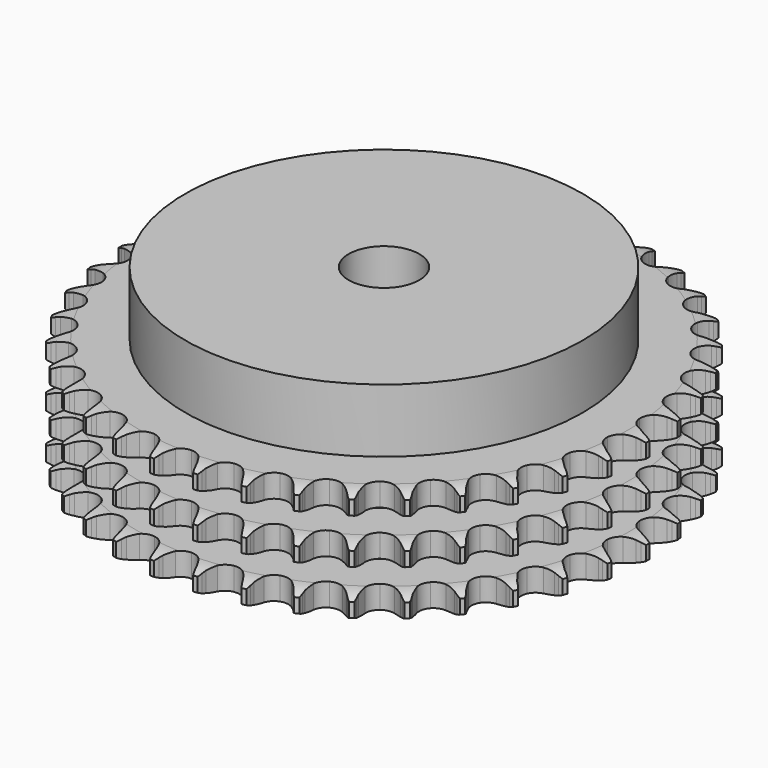
from build123d import *

# Parameters (mm, degrees)
PAD_DEPTH         = 25.6
SKETCH001_R       = 45
PAD001_DEPTH      = 40
SKETCH002_R       = 8
POCKET_DEPTH      = 0.001
POCKET_DEPTH_BACK = 40.001


with BuildPart() as part:
    # Sprocket → Pad (new body)
    with BuildSketch(Plane.XY):
        with BuildLine():
            ThreePointArc((-4.99856, 60.323644), (-4.441675, 59.555748), (-4.035521, 58.69853))
            Line((-4.035521, 58.69853), (-3.725843, 57.850122))
            ThreePointArc((-3.725843, 57.850122), (-3.235353, 56.757927), (-2.592985, 55.747564))
            ThreePointArc((-2.592985, 55.747564), (-1.45137, 54.787399), (0, 54.442831))
            ThreePointArc((0, 54.442831), (1.45137, 54.787399), (2.592985, 55.747564))
            ThreePointArc((2.592985, 55.747564), (3.235353, 56.757927), (3.725843, 57.850122))
            Line((3.725843, 57.850122), (4.035521, 58.69853))
            ThreePointArc((4.035521, 58.69853), (4.441675, 59.555748), (4.99856, 60.323644))
            ThreePointArc((4.99856, 60.323644), (5.421458, 59.474561), (5.680978, 58.562184))
            Line((5.680978, 58.562184), (5.846789, 57.674375))
            ThreePointArc((5.846789, 57.674375), (6.150821, 56.516344), (6.618128, 55.414031))
            ThreePointArc((6.618128, 55.414031), (7.586134, 54.279058), (8.960995, 53.700302))
            ThreePointArc((8.960995, 53.700302), (10.449284, 53.801282), (11.733367, 54.560448))
            Line((11.733367, 54.560448), (13.196845, 56.447868))
            ThreePointArc((13.196845, 56.447868), (13.408708, 56.846853), (13.641943, 57.233734))
            ThreePointArc((13.641943, 57.233734), (14.18365, 58.01241), (14.859331, 58.678172))
            ThreePointArc((14.859331, 58.678172), (15.136708, 57.771063), (15.242516, 56.828413))
            Line((15.242516, 56.828413), (15.259937, 55.925422))
            ThreePointArc((15.259937, 55.925422), (15.369216, 54.733143), (15.648715, 53.568948))
            ThreePointArc((15.648715, 53.568948), (16.416709, 52.290125), (17.677558, 51.492968))
            ThreePointArc((17.677558, 51.492968), (19.16217, 51.347607), (20.553694, 51.885066))
            Line((20.553694, 51.885066), (22.307871, 53.505863))
            ThreePointArc((22.307871, 53.505863), (22.582515, 53.864535), (22.876247, 54.20775))
            ThreePointArc((22.876247, 54.20775), (23.538732, 54.886644), (24.314779, 55.432112))
            ThreePointArc((24.314779, 55.432112), (24.439067, 54.491721), (24.388277, 53.544512))
            Line((24.388277, 53.544512), (24.256833, 52.650969))
            ThreePointArc((24.256833, 52.650969), (24.168379, 51.456965), (24.252445, 50.262643))
            ThreePointArc((24.252445, 50.262643), (24.799478, 48.874855), (25.911924, 47.881041))
            ThreePointArc((25.911924, 47.881041), (27.352361, 47.493304), (28.81337, 47.794394))
            Line((28.81337, 47.794394), (30.810396, 49.104358))
            ThreePointArc((30.810396, 49.104358), (31.14033, 49.412933), (31.486548, 49.70312))
            ThreePointArc((31.486548, 49.70312), (32.251739, 50.263714), (33.106983, 50.67401))
            ThreePointArc((33.106983, 50.67401), (33.074793, 49.725987), (32.86879, 48.800056))
            Line((32.86879, 48.800056), (32.592066, 47.940335))
            ThreePointArc((32.592066, 47.940335), (32.308292, 46.777174), (32.194633, 45.585305))
            ThreePointArc((32.194633, 45.585305), (32.505782, 44.126406), (33.439479, 42.963043))
            ThreePointArc((33.439479, 42.963043), (34.796452, 42.343506), (36.287092, 42.400016))
            Line((36.287092, 42.400016), (38.472494, 43.363414))
            ThreePointArc((38.472494, 43.363414), (38.848718, 43.613475), (39.237977, 43.842719))
            ThreePointArc((39.237977, 43.842719), (40.085003, 44.269721), (40.996115, 44.533652))
            ThreePointArc((40.996115, 44.533652), (40.808324, 43.603857), (40.452728, 42.724462))
            Line((40.452728, 42.724462), (40.038273, 41.922013))
            ThreePointArc((40.038273, 41.922013), (39.566919, 40.821424), (39.258635, 39.664518))
            ThreePointArc((39.258635, 39.664518), (39.325413, 38.174303), (40.054893, 36.873126))
            ThreePointArc((40.054893, 36.873126), (41.291385, 36.038688), (42.770996, 35.849077))
            Line((42.770996, 35.849077), (45.085163, 36.439629))
            ThreePointArc((45.085163, 36.439629), (45.497414, 36.624355), (45.919096, 36.786403))
            ThreePointArc((45.919096, 36.786403), (46.824852, 37.068165), (47.766979, 37.178532))
            ThreePointArc((47.766979, 37.178532), (47.428711, 36.292328), (46.933221, 35.483456))
            Line((46.933221, 35.483456), (46.39234, 34.760169))
            ThreePointArc((46.39234, 34.760169), (45.746263, 33.752173), (45.251763, 32.661787))
            ThreePointArc((45.251763, 32.661787), (45.07235, 31.180905), (45.577713, 29.777406))
            ThreePointArc((45.577713, 29.777406), (46.659998, 28.750829), (48.08822, 28.320267))
            Line((48.08822, 28.320267), (50.468026, 28.521866))
            ThreePointArc((50.468026, 28.521866), (50.90506, 28.636219), (51.347663, 28.72665))
            ThreePointArc((51.347663, 28.72665), (52.287442, 28.855486), (53.234885, 28.809279))
            ThreePointArc((53.234885, 28.809279), (52.755366, 27.990839), (52.133498, 27.274554))
            Line((52.133498, 27.274554), (51.480944, 26.650157))
            ThreePointArc((51.480944, 26.650157), (50.677769, 25.76225), (50.010542, 24.768127))
            ThreePointArc((50.010542, 24.768127), (49.58983, 23.336973), (49.857293, 21.869436))
            ThreePointArc((49.857293, 21.869436), (50.755847, 20.678722), (52.093722, 20.018955))
            Line((52.093722, 20.018955), (54.474253, 19.826101))
            ThreePointArc((54.474253, 19.826101), (54.924148, 19.86696), (55.375599, 19.883308))
            ThreePointArc((55.375599, 19.883308), (56.323766, 19.855705), (57.250682, 19.654184))
            ThreePointArc((57.250682, 19.654184), (56.642992, 18.925832), (55.911709, 18.321673))
            Line((55.911709, 18.321673), (55.165283, 17.813199))
            ThreePointArc((55.165283, 17.813199), (54.226917, 17.069599), (53.405163, 16.198858))
            ThreePointArc((53.405163, 16.198858), (52.754629, 14.85647), (52.776895, 13.364925))
            ThreePointArc((52.776895, 13.364925), (53.467209, 12.042553), (54.678243, 11.171578))
            Line((54.678243, 11.171578), (56.994564, 10.589532))
            ThreePointArc((56.994564, 10.589532), (57.445048, 10.555783), (57.893033, 10.497602))
            ThreePointArc((57.893033, 10.497602), (58.823725, 10.314311), (59.70483, 9.962974))
            ThreePointArc((59.70483, 9.962974), (58.985545, 9.344579), (58.164794, 8.869024))
            Line((58.164794, 8.869024), (57.344857, 8.490343))
            ThreePointArc((57.344857, 8.490343), (56.296896, 7.911335), (55.34303, 7.187726))
            ThreePointArc((55.34303, 7.187726), (54.480419, 5.97072), (54.256881, 4.495853))
            ThreePointArc((54.256881, 4.495853), (54.720125, 3.077895), (55.771284, 2.019469))
            Line((55.771284, 2.019469), (57.960212, 1.064108))
            ThreePointArc((57.960212, 1.064108), (58.398997, 0.956672), (58.831295, 0.825548))
            ThreePointArc((58.831295, 0.825548), (59.719126, 0.491571), (60.530385, 0))
            ThreePointArc((60.530385, 0), (59.719126, -0.491571), (58.831295, -0.825548))
            Line((58.831295, -0.825548), (57.960212, -1.064108))
            ThreePointArc((57.960212, -1.064108), (56.831243, -1.46273), (55.771284, -2.019469))
            ThreePointArc((55.771284, -2.019469), (54.720125, -3.077895), (54.256881, -4.495853))
            ThreePointArc((54.256881, -4.495853), (54.480419, -5.97072), (55.34303, -7.187726))
            Line((55.34303, -7.187726), (57.344857, -8.490343))
            ThreePointArc((57.344857, -8.490343), (57.759974, -8.668535), (58.164794, -8.869024))
            ThreePointArc((58.164794, -8.869024), (58.985545, -9.344579), (59.70483, -9.962974))
            ThreePointArc((59.70483, -9.962974), (58.823725, -10.314311), (57.893033, -10.497602))
            Line((57.893033, -10.497602), (56.994564, -10.589532))
            ThreePointArc((56.994564, -10.589532), (55.815381, -10.796895), (54.678243, -11.171578))
            ThreePointArc((54.678243, -11.171578), (53.467209, -12.042553), (52.776895, -13.364925))
            ThreePointArc((52.776895, -13.364925), (52.754629, -14.85647), (53.405163, -16.198858))
            Line((53.405163, -16.198858), (55.165283, -17.813199))
            ThreePointArc((55.165283, -17.813199), (55.54541, -18.057287), (55.911709, -18.321673))
            ThreePointArc((55.911709, -18.321673), (56.642992, -18.925832), (57.250682, -19.654184))
            ThreePointArc((57.250682, -19.654184), (56.323766, -19.855705), (55.375599, -19.883308))
            Line((55.375599, -19.883308), (54.474253, -19.826101))
            ThreePointArc((54.474253, -19.826101), (53.277022, -19.836549), (52.093722, -20.018955))
            ThreePointArc((52.093722, -20.018955), (50.755847, -20.678722), (49.857293, -21.869436))
            ThreePointArc((49.857293, -21.869436), (49.58983, -23.336973), (50.010542, -24.768127))
            Line((50.010542, -24.768127), (51.480944, -26.650157))
            ThreePointArc((51.480944, -26.650157), (51.815711, -26.953483), (52.133498, -27.274554))
            ThreePointArc((52.133498, -27.274554), (52.755366, -27.990839), (53.234885, -28.809279))
            ThreePointArc((53.234885, -28.809279), (52.287442, -28.855486), (51.347663, -28.72665))
            Line((51.347663, -28.72665), (50.468026, -28.521866))
            ThreePointArc((50.468026, -28.521866), (49.285404, -28.335114), (48.08822, -28.320267))
            ThreePointArc((48.08822, -28.320267), (46.659998, -28.750829), (45.577713, -29.777406))
            ThreePointArc((45.577713, -29.777406), (45.07235, -31.180905), (45.251763, -32.661787))
            Line((45.251763, -32.661787), (46.39234, -34.760169))
            ThreePointArc((46.39234, -34.760169), (46.672615, -35.114458), (46.933221, -35.483456))
            ThreePointArc((46.933221, -35.483456), (47.428711, -36.292328), (47.766979, -37.178532))
            ThreePointArc((47.766979, -37.178532), (46.824852, -37.068165), (45.919096, -36.786403))
            Line((45.919096, -36.786403), (45.085163, -36.439629))
            ThreePointArc((45.085163, -36.439629), (43.949409, -36.060771), (42.770996, -35.849077))
            ThreePointArc((42.770996, -35.849077), (41.291385, -36.038688), (40.054893, -36.873126))
            ThreePointArc((40.054893, -36.873126), (39.325413, -38.174303), (39.258635, -39.664518))
            Line((39.258635, -39.664518), (40.038273, -41.922013))
            ThreePointArc((40.038273, -41.922013), (40.256411, -42.317602), (40.452728, -42.724462))
            ThreePointArc((40.452728, -42.724462), (40.808324, -43.603857), (40.996115, -44.533652))
            ThreePointArc((40.996115, -44.533652), (40.085003, -44.269721), (39.237977, -43.842719))
            Line((39.237977, -43.842719), (38.472494, -43.363414))
            ThreePointArc((38.472494, -43.363414), (37.414588, -42.802784), (36.287092, -42.400016))
            ThreePointArc((36.287092, -42.400016), (34.796452, -42.343506), (33.439479, -42.963043))
            ThreePointArc((33.439479, -42.963043), (32.505782, -44.126406), (32.194633, -45.585305))
            Line((32.194633, -45.585305), (32.592066, -47.940335))
            ThreePointArc((32.592066, -47.940335), (32.742118, -48.366433), (32.86879, -48.800056))
            ThreePointArc((32.86879, -48.800056), (33.074793, -49.725987), (33.106983, -50.67401))
            ThreePointArc((33.106983, -50.67401), (32.251739, -50.263714), (31.486548, -49.70312))
            Line((31.486548, -49.70312), (30.810396, -49.104358))
            ThreePointArc((30.810396, -49.104358), (29.859195, -48.377249), (28.81337, -47.794394))
            ThreePointArc((28.81337, -47.794394), (27.352361, -47.493304), (25.911924, -47.881041))
            ThreePointArc((25.911924, -47.881041), (24.799478, -48.874855), (24.252445, -50.262643))
            Line((24.252445, -50.262643), (24.256833, -52.650969))
            ThreePointArc((24.256833, -52.650969), (24.334705, -53.095953), (24.388277, -53.544512))
            ThreePointArc((24.388277, -53.544512), (24.439067, -54.491721), (24.314779, -55.432112))
            ThreePointArc((24.314779, -55.432112), (23.538732, -54.886644), (22.876247, -54.20775))
            Line((22.876247, -54.20775), (22.307871, -53.505863))
            ThreePointArc((22.307871, -53.505863), (21.489321, -52.632108), (20.553694, -51.885066))
            ThreePointArc((20.553694, -51.885066), (19.16217, -51.347607), (17.677558, -51.492968))
            ThreePointArc((17.677558, -51.492968), (16.416709, -52.290125), (15.648715, -53.568948))
            Line((15.648715, -53.568948), (15.259937, -55.925422))
            ThreePointArc((15.259937, -55.925422), (15.263504, -56.377155), (15.242516, -56.828413))
            ThreePointArc((15.242516, -56.828413), (15.136708, -57.771063), (14.859331, -58.678172))
            ThreePointArc((14.859331, -58.678172), (14.18365, -58.01241), (13.641943, -57.233734))
            Line((13.641943, -57.233734), (13.196845, -56.447868))
            ThreePointArc((13.196845, -56.447868), (12.533275, -55.451301), (11.733367, -54.560448))
            ThreePointArc((11.733367, -54.560448), (10.449284, -53.801282), (8.960995, -53.700302))
            ThreePointArc((8.960995, -53.700302), (7.586134, -54.279058), (6.618128, -55.414031))
            Line((6.618128, -55.414031), (5.846789, -57.674375))
            ThreePointArc((5.846789, -57.674375), (5.775956, -58.120534), (5.680978, -58.562184))
            ThreePointArc((5.680978, -58.562184), (5.421458, -59.474561), (4.99856, -60.323644))
            ThreePointArc((4.99856, -60.323644), (4.441675, -59.555748), (4.035521, -58.69853))
            Line((4.035521, -58.69853), (3.725843, -57.850122))
            ThreePointArc((3.725843, -57.850122), (3.235353, -56.757927), (2.592985, -55.747564))
            ThreePointArc((2.592985, -55.747564), (1.45137, -54.787399), (0, -54.442831))
            ThreePointArc((0, -54.442831), (-1.45137, -54.787399), (-2.592985, -55.747564))
            Line((-2.592985, -55.747564), (-3.725843, -57.850122))
            ThreePointArc((-3.725843, -57.850122), (-3.869146, -58.278537), (-4.035521, -58.69853))
            ThreePointArc((-4.035521, -58.69853), (-4.441675, -59.555748), (-4.99856, -60.323644))
            ThreePointArc((-4.99856, -60.323644), (-5.421458, -59.474561), (-5.680978, -58.562184))
            Line((-5.680978, -58.562184), (-5.846789, -57.674375))
            ThreePointArc((-5.846789, -57.674375), (-6.150821, -56.516344), (-6.618128, -55.414031))
            ThreePointArc((-6.618128, -55.414031), (-7.586134, -54.279058), (-8.960995, -53.700302))
            ThreePointArc((-8.960995, -53.700302), (-10.449284, -53.801282), (-11.733367, -54.560448))
            Line((-11.733367, -54.560448), (-13.196845, -56.447868))
            ThreePointArc((-13.196845, -56.447868), (-13.408708, -56.846853), (-13.641943, -57.233734))
            ThreePointArc((-13.641943, -57.233734), (-14.18365, -58.01241), (-14.859331, -58.678172))
            ThreePointArc((-14.859331, -58.678172), (-15.136708, -57.771063), (-15.242516, -56.828413))
            Line((-15.242516, -56.828413), (-15.259937, -55.925422))
            ThreePointArc((-15.259937, -55.925422), (-15.369216, -54.733143), (-15.648715, -53.568948))
            ThreePointArc((-15.648715, -53.568948), (-16.416709, -52.290125), (-17.677558, -51.492968))
            ThreePointArc((-17.677558, -51.492968), (-19.16217, -51.347607), (-20.553694, -51.885066))
            Line((-20.553694, -51.885066), (-22.307871, -53.505863))
            ThreePointArc((-22.307871, -53.505863), (-22.582515, -53.864535), (-22.876247, -54.20775))
            ThreePointArc((-22.876247, -54.20775), (-23.538732, -54.886644), (-24.314779, -55.432112))
            ThreePointArc((-24.314779, -55.432112), (-24.439067, -54.491721), (-24.388277, -53.544512))
            Line((-24.388277, -53.544512), (-24.256833, -52.650969))
            ThreePointArc((-24.256833, -52.650969), (-24.168379, -51.456965), (-24.252445, -50.262643))
            ThreePointArc((-24.252445, -50.262643), (-24.799478, -48.874855), (-25.911924, -47.881041))
            ThreePointArc((-25.911924, -47.881041), (-27.352361, -47.493304), (-28.81337, -47.794394))
            Line((-28.81337, -47.794394), (-30.810396, -49.104358))
            ThreePointArc((-30.810396, -49.104358), (-31.14033, -49.412933), (-31.486548, -49.70312))
            ThreePointArc((-31.486548, -49.70312), (-32.251739, -50.263714), (-33.106983, -50.67401))
            ThreePointArc((-33.106983, -50.67401), (-33.074793, -49.725987), (-32.86879, -48.800056))
            Line((-32.86879, -48.800056), (-32.592066, -47.940335))
            ThreePointArc((-32.592066, -47.940335), (-32.308292, -46.777174), (-32.194633, -45.585305))
            ThreePointArc((-32.194633, -45.585305), (-32.505782, -44.126406), (-33.439479, -42.963043))
            ThreePointArc((-33.439479, -42.963043), (-34.796452, -42.343506), (-36.287092, -42.400016))
            Line((-36.287092, -42.400016), (-38.472494, -43.363414))
            ThreePointArc((-38.472494, -43.363414), (-38.848718, -43.613475), (-39.237977, -43.842719))
            ThreePointArc((-39.237977, -43.842719), (-40.085003, -44.269721), (-40.996115, -44.533652))
            ThreePointArc((-40.996115, -44.533652), (-40.808324, -43.603857), (-40.452728, -42.724462))
            Line((-40.452728, -42.724462), (-40.038273, -41.922013))
            ThreePointArc((-40.038273, -41.922013), (-39.566919, -40.821424), (-39.258635, -39.664518))
            ThreePointArc((-39.258635, -39.664518), (-39.325413, -38.174303), (-40.054893, -36.873126))
            ThreePointArc((-40.054893, -36.873126), (-41.291385, -36.038688), (-42.770996, -35.849077))
            Line((-42.770996, -35.849077), (-45.085163, -36.439629))
            ThreePointArc((-45.085163, -36.439629), (-45.497414, -36.624355), (-45.919096, -36.786403))
            ThreePointArc((-45.919096, -36.786403), (-46.824852, -37.068165), (-47.766979, -37.178532))
            ThreePointArc((-47.766979, -37.178532), (-47.428711, -36.292328), (-46.933221, -35.483456))
            Line((-46.933221, -35.483456), (-46.39234, -34.760169))
            ThreePointArc((-46.39234, -34.760169), (-45.746263, -33.752173), (-45.251763, -32.661787))
            ThreePointArc((-45.251763, -32.661787), (-45.07235, -31.180905), (-45.577713, -29.777406))
            ThreePointArc((-45.577713, -29.777406), (-46.659998, -28.750829), (-48.08822, -28.320267))
            Line((-48.08822, -28.320267), (-50.468026, -28.521866))
            ThreePointArc((-50.468026, -28.521866), (-50.90506, -28.636219), (-51.347663, -28.72665))
            ThreePointArc((-51.347663, -28.72665), (-52.287442, -28.855486), (-53.234885, -28.809279))
            ThreePointArc((-53.234885, -28.809279), (-52.755366, -27.990839), (-52.133498, -27.274554))
            Line((-52.133498, -27.274554), (-51.480944, -26.650157))
            ThreePointArc((-51.480944, -26.650157), (-50.677769, -25.76225), (-50.010542, -24.768127))
            ThreePointArc((-50.010542, -24.768127), (-49.58983, -23.336973), (-49.857293, -21.869436))
            ThreePointArc((-49.857293, -21.869436), (-50.755847, -20.678722), (-52.093722, -20.018955))
            Line((-52.093722, -20.018955), (-54.474253, -19.826101))
            ThreePointArc((-54.474253, -19.826101), (-54.924148, -19.86696), (-55.375599, -19.883308))
            ThreePointArc((-55.375599, -19.883308), (-56.323766, -19.855705), (-57.250682, -19.654184))
            ThreePointArc((-57.250682, -19.654184), (-56.642992, -18.925832), (-55.911709, -18.321673))
            Line((-55.911709, -18.321673), (-55.165283, -17.813199))
            ThreePointArc((-55.165283, -17.813199), (-54.226917, -17.069599), (-53.405163, -16.198858))
            ThreePointArc((-53.405163, -16.198858), (-52.754629, -14.85647), (-52.776895, -13.364925))
            ThreePointArc((-52.776895, -13.364925), (-53.467209, -12.042553), (-54.678243, -11.171578))
            Line((-54.678243, -11.171578), (-56.994564, -10.589532))
            ThreePointArc((-56.994564, -10.589532), (-57.445048, -10.555783), (-57.893033, -10.497602))
            ThreePointArc((-57.893033, -10.497602), (-58.823725, -10.314311), (-59.70483, -9.962974))
            ThreePointArc((-59.70483, -9.962974), (-58.985545, -9.344579), (-58.164794, -8.869024))
            Line((-58.164794, -8.869024), (-57.344857, -8.490343))
            ThreePointArc((-57.344857, -8.490343), (-56.296896, -7.911335), (-55.34303, -7.187726))
            ThreePointArc((-55.34303, -7.187726), (-54.480419, -5.97072), (-54.256881, -4.495853))
            ThreePointArc((-54.256881, -4.495853), (-54.720125, -3.077895), (-55.771284, -2.019469))
            Line((-55.771284, -2.019469), (-57.960212, -1.064108))
            ThreePointArc((-57.960212, -1.064108), (-58.398997, -0.956672), (-58.831295, -0.825548))
            ThreePointArc((-58.831295, -0.825548), (-59.719126, -0.491571), (-60.530385, 0))
            ThreePointArc((-60.530385, 0), (-59.719126, 0.491571), (-58.831295, 0.825548))
            Line((-58.831295, 0.825548), (-57.960212, 1.064108))
            ThreePointArc((-57.960212, 1.064108), (-56.831243, 1.46273), (-55.771284, 2.019469))
            ThreePointArc((-55.771284, 2.019469), (-54.720125, 3.077895), (-54.256881, 4.495853))
            ThreePointArc((-54.256881, 4.495853), (-54.480419, 5.97072), (-55.34303, 7.187726))
            Line((-55.34303, 7.187726), (-57.344857, 8.490343))
            ThreePointArc((-57.344857, 8.490343), (-57.759974, 8.668535), (-58.164794, 8.869024))
            ThreePointArc((-58.164794, 8.869024), (-58.985545, 9.344579), (-59.70483, 9.962974))
            ThreePointArc((-59.70483, 9.962974), (-58.823725, 10.314311), (-57.893033, 10.497602))
            Line((-57.893033, 10.497602), (-56.994564, 10.589532))
            ThreePointArc((-56.994564, 10.589532), (-55.815381, 10.796895), (-54.678243, 11.171578))
            ThreePointArc((-54.678243, 11.171578), (-53.467209, 12.042553), (-52.776895, 13.364925))
            ThreePointArc((-52.776895, 13.364925), (-52.754629, 14.85647), (-53.405163, 16.198858))
            Line((-53.405163, 16.198858), (-55.165283, 17.813199))
            ThreePointArc((-55.165283, 17.813199), (-55.54541, 18.057287), (-55.911709, 18.321673))
            ThreePointArc((-55.911709, 18.321673), (-56.642992, 18.925832), (-57.250682, 19.654184))
            ThreePointArc((-57.250682, 19.654184), (-56.323766, 19.855705), (-55.375599, 19.883308))
            Line((-55.375599, 19.883308), (-54.474253, 19.826101))
            ThreePointArc((-54.474253, 19.826101), (-53.277022, 19.836549), (-52.093722, 20.018955))
            ThreePointArc((-52.093722, 20.018955), (-50.755847, 20.678722), (-49.857293, 21.869436))
            ThreePointArc((-49.857293, 21.869436), (-49.58983, 23.336973), (-50.010542, 24.768127))
            Line((-50.010542, 24.768127), (-51.480944, 26.650157))
            ThreePointArc((-51.480944, 26.650157), (-51.815711, 26.953483), (-52.133498, 27.274554))
            ThreePointArc((-52.133498, 27.274554), (-52.755366, 27.990839), (-53.234885, 28.809279))
            ThreePointArc((-53.234885, 28.809279), (-52.287442, 28.855486), (-51.347663, 28.72665))
            Line((-51.347663, 28.72665), (-50.468026, 28.521866))
            ThreePointArc((-50.468026, 28.521866), (-49.285404, 28.335114), (-48.08822, 28.320267))
            ThreePointArc((-48.08822, 28.320267), (-46.659998, 28.750829), (-45.577713, 29.777406))
            ThreePointArc((-45.577713, 29.777406), (-45.07235, 31.180905), (-45.251763, 32.661787))
            Line((-45.251763, 32.661787), (-46.39234, 34.760169))
            ThreePointArc((-46.39234, 34.760169), (-46.672615, 35.114458), (-46.933221, 35.483456))
            ThreePointArc((-46.933221, 35.483456), (-47.428711, 36.292328), (-47.766979, 37.178532))
            ThreePointArc((-47.766979, 37.178532), (-46.824852, 37.068165), (-45.919096, 36.786403))
            Line((-45.919096, 36.786403), (-45.085163, 36.439629))
            ThreePointArc((-45.085163, 36.439629), (-43.949409, 36.060771), (-42.770996, 35.849077))
            ThreePointArc((-42.770996, 35.849077), (-41.291385, 36.038688), (-40.054893, 36.873126))
            ThreePointArc((-40.054893, 36.873126), (-39.325413, 38.174303), (-39.258635, 39.664518))
            Line((-39.258635, 39.664518), (-40.038273, 41.922013))
            ThreePointArc((-40.038273, 41.922013), (-40.256411, 42.317602), (-40.452728, 42.724462))
            ThreePointArc((-40.452728, 42.724462), (-40.808324, 43.603857), (-40.996115, 44.533652))
            ThreePointArc((-40.996115, 44.533652), (-40.085003, 44.269721), (-39.237977, 43.842719))
            Line((-39.237977, 43.842719), (-38.472494, 43.363414))
            ThreePointArc((-38.472494, 43.363414), (-37.414588, 42.802784), (-36.287092, 42.400016))
            ThreePointArc((-36.287092, 42.400016), (-34.796452, 42.343506), (-33.439479, 42.963043))
            ThreePointArc((-33.439479, 42.963043), (-32.505782, 44.126406), (-32.194633, 45.585305))
            Line((-32.194633, 45.585305), (-32.592066, 47.940335))
            ThreePointArc((-32.592066, 47.940335), (-32.742118, 48.366433), (-32.86879, 48.800056))
            ThreePointArc((-32.86879, 48.800056), (-33.074793, 49.725987), (-33.106983, 50.67401))
            ThreePointArc((-33.106983, 50.67401), (-32.251739, 50.263714), (-31.486548, 49.70312))
            Line((-31.486548, 49.70312), (-30.810396, 49.104358))
            ThreePointArc((-30.810396, 49.104358), (-29.859195, 48.377249), (-28.81337, 47.794394))
            ThreePointArc((-28.81337, 47.794394), (-27.352361, 47.493304), (-25.911924, 47.881041))
            ThreePointArc((-25.911924, 47.881041), (-24.799478, 48.874855), (-24.252445, 50.262643))
            Line((-24.252445, 50.262643), (-24.256833, 52.650969))
            ThreePointArc((-24.256833, 52.650969), (-24.334705, 53.095953), (-24.388277, 53.544512))
            ThreePointArc((-24.388277, 53.544512), (-24.439067, 54.491721), (-24.314779, 55.432112))
            ThreePointArc((-24.314779, 55.432112), (-23.538732, 54.886644), (-22.876247, 54.20775))
            Line((-22.876247, 54.20775), (-22.307871, 53.505863))
            ThreePointArc((-22.307871, 53.505863), (-21.489321, 52.632108), (-20.553694, 51.885066))
            ThreePointArc((-20.553694, 51.885066), (-19.16217, 51.347607), (-17.677558, 51.492968))
            ThreePointArc((-17.677558, 51.492968), (-16.416709, 52.290125), (-15.648715, 53.568948))
            Line((-15.648715, 53.568948), (-15.259937, 55.925422))
            ThreePointArc((-15.259937, 55.925422), (-15.263504, 56.377155), (-15.242516, 56.828413))
            ThreePointArc((-15.242516, 56.828413), (-15.136708, 57.771063), (-14.859331, 58.678172))
            ThreePointArc((-14.859331, 58.678172), (-14.18365, 58.01241), (-13.641943, 57.233734))
            Line((-13.641943, 57.233734), (-13.196845, 56.447868))
            ThreePointArc((-13.196845, 56.447868), (-12.533275, 55.451301), (-11.733367, 54.560448))
            ThreePointArc((-11.733367, 54.560448), (-10.449284, 53.801282), (-8.960995, 53.700302))
            ThreePointArc((-8.960995, 53.700302), (-7.586134, 54.279058), (-6.618128, 55.414031))
            Line((-6.618128, 55.414031), (-5.846789, 57.674375))
            ThreePointArc((-5.846789, 57.674375), (-5.775956, 58.120534), (-5.680978, 58.562184))
            ThreePointArc((-5.680978, 58.562184), (-5.421458, 59.474561), (-4.99856, 60.323644))
        make_face()
    extrude(amount=PAD_DEPTH)

    # Sketch → Groove (revolve, cut)
    with BuildSketch(Plane.XZ):
        with BuildLine():
            ThreePointArc((55.391101, 0), (57.627169, 0.253206), (59.75, 1))
            Line((59.75, 1), (59.75, 4.2))
            ThreePointArc((59.75, 4.2), (57.627169, 4.946794), (55.391101, 5.2))
            Line((45, 5.2), (55.391101, 5.2))
            Line((45, 5.2), (45, 10.2))
            Line((45, 10.2), (55.391101, 10.2))
            ThreePointArc((55.391101, 10.2), (57.627169, 10.453206), (59.75, 11.2))
            Line((59.75, 14.4), (59.75, 11.2))
            ThreePointArc((59.75, 14.4), (57.627169, 15.146794), (55.391101, 15.4))
            Line((45, 15.4), (55.391101, 15.4))
            Line((45, 20.4), (45, 15.4))
            Line((55.391101, 20.4), (45, 20.4))
            ThreePointArc((55.391101, 20.4), (57.627169, 20.653206), (59.75, 21.4))
            Line((59.75, 21.4), (59.75, 24.6))
            ThreePointArc((59.75, 24.6), (57.627169, 25.346794), (55.391101, 25.6))
            Line((55.391101, 25.6), (69.75, 25.6))
            Line((69.75, 25.6), (69.75, 0))
            Line((55.391101, 0), (69.75, 0))
        make_face()
    revolve(axis=Axis((0, 0, 0), (0, 0, 1)), mode=Mode.SUBTRACT)

    # Sketch001 → Pad001 (join)
    with BuildSketch(Plane.XY):
        Circle(SKETCH001_R)
    extrude(amount=PAD001_DEPTH)

    # Sketch002 → Pocket (cut, two sides)
    with BuildSketch(Plane.XY) as pocket_sk:
        Circle(SKETCH002_R)
    extrude(amount=-POCKET_DEPTH, mode=Mode.SUBTRACT)
    extrude(pocket_sk.sketch, amount=POCKET_DEPTH_BACK, mode=Mode.SUBTRACT)


solid = part.part
